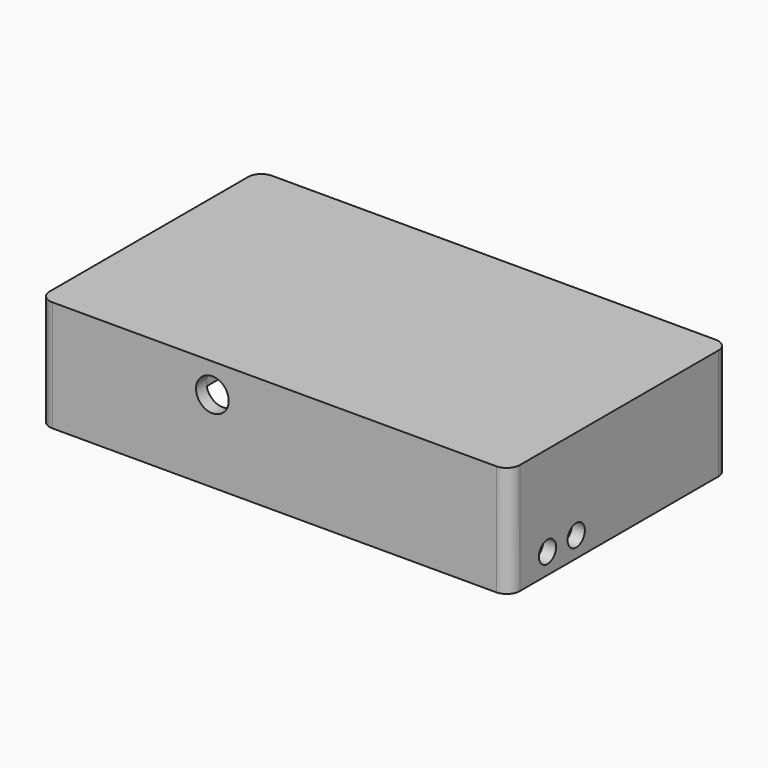
from build123d import *

# Parameters (mm, degrees)
BOX017_W          = 16
BOX017_H          = 4
BOX017_DEPTH      = 1
FILLET004_R       = 1
CYLINDER025_R     = 1.65
CYLINDER025_DEPTH = 10
CYLINDER024_R     = 1.65
CYLINDER024_DEPTH = 10
BOX015_W          = 2
BOX015_H          = 10
BOX015_DEPTH      = 5
FILLET006_R       = 1.5
CYLINDER023_R     = 2.5
CYLINDER023_DEPTH = 2
BOX009_W          = 68
BOX009_H          = 38
BOX009_DEPTH      = 15
BOX008_W          = 72
BOX008_H          = 42
BOX008_DEPTH      = 17
FILLET_R          = 2
BOX018_W          = 2
BOX018_H          = 10
BOX018_DEPTH      = 5
FILLET005_R       = 1.5


with BuildPart() as fillet004:
    # Box017 → Box017 (new body)
    with BuildSketch(Plane(origin=(-19, -30.6, 33), x_dir=(1, 0, 0), z_dir=(0, 0, 1))):
        with Locations((8, 2)):
            Rectangle(BOX017_W, BOX017_H)
    extrude(amount=BOX017_DEPTH)

    # Fillet004
    fillet004_edges = [fillet004.edges().sort_by_distance(p)[0] for p in [
        (-19, -30.6, 33.5),
        (-19, -26.6, 33.5),
        (-3, -30.6, 33.5),
        (-3, -26.6, 33.5),
    ]]
    fillet(fillet004_edges, radius=FILLET004_R)


with BuildPart() as cylinder025:
    # Cylinder025 → Cylinder025 (new body)
    with BuildSketch(Plane(origin=(33.99, -22.8034, 21.15), x_dir=(0, 0, -1), z_dir=(1, 0, 0))):
        Circle(CYLINDER025_R)
    extrude(amount=CYLINDER025_DEPTH)


with BuildPart() as fusion018:
    # Cylinder024 → Cylinder024 (new body)
    with BuildSketch(Plane(origin=(33.99, -28.3034, 21.15), x_dir=(0, 0, -1), z_dir=(1, 0, 0))):
        Circle(CYLINDER024_R)
    extrude(amount=CYLINDER024_DEPTH)

    # Fusion018: union Cylinder025
    add(cylinder025.part)


with BuildPart() as fillet006:
    # Box015 → Box015 (new body)
    with BuildSketch(Plane(origin=(-14, -33.6, 30), x_dir=(1, 0, 0), z_dir=(0, 0, 1))):
        with Locations((1, 5)):
            Rectangle(BOX015_W, BOX015_H)
    extrude(amount=BOX015_DEPTH)

    # Fillet006
    fillet006_edges = [fillet006.edges().sort_by_distance(p)[0] for p in [
        (-13, -23.6, 30),
    ]]
    fillet(fillet006_edges, radius=FILLET006_R)


with BuildPart() as cylinder023:
    # Cylinder023 → Cylinder023 (new body)
    with BuildSketch(Plane(origin=(-9.5, -33.6034, 30.5), x_dir=(1, 0, 0), z_dir=(0, -1, 0))):
        Circle(CYLINDER023_R)
    extrude(amount=CYLINDER023_DEPTH)


with BuildPart() as kostka009:
    # Box009 → Box009 (new body)
    with BuildSketch(Plane(origin=(-34.01, -33.6034, 18), x_dir=(1, 0, 0), z_dir=(0, 0, 1))):
        with Locations((34, 19)):
            Rectangle(BOX009_W, BOX009_H)
    extrude(amount=BOX009_DEPTH)


with BuildPart() as cut020:
    # Box008 → Box008 (new body)
    with BuildSketch(Plane(origin=(-36.01, -35.6034, 18), x_dir=(1, 0, 0), z_dir=(0, 0, 1))):
        with Locations((36, 21)):
            Rectangle(BOX008_W, BOX008_H)
    extrude(amount=BOX008_DEPTH)

    # Cut005: cut Kostka009
    add(kostka009.part, mode=Mode.SUBTRACT)

    # Fillet
    fillet_edges = [cut020.edges().sort_by_distance(p)[0] for p in [
        (-36.01, -35.6034, 26.5),
        (-36.01, 6.3966, 26.5),
        (35.99, -35.6034, 26.5),
        (35.99, 6.3966, 26.5),
    ]]
    fillet(fillet_edges, radius=FILLET_R)

    # Cut020: cut Cylinder023
    add(cylinder023.part, mode=Mode.SUBTRACT)


with BuildPart() as cover:
    # Box018 → Box018 (new body)
    with BuildSketch(Plane(origin=(-7, -33.6, 30), x_dir=(1, 0, 0), z_dir=(0, 0, 1))):
        with Locations((1, 5)):
            Rectangle(BOX018_W, BOX018_H)
    extrude(amount=BOX018_DEPTH)

    # Fillet005
    fillet005_edges = [cover.edges().sort_by_distance(p)[0] for p in [
        (-6, -23.6, 30),
    ]]
    fillet(fillet005_edges, radius=FILLET005_R)

    # Fusion017: union Fillet006, Cut020
    add(fillet006.part)
    add(cut020.part)

    # Cut021: cut Fusion018
    add(fusion018.part, mode=Mode.SUBTRACT)

    # Cut022: cut Fillet004
    add(fillet004.part, mode=Mode.SUBTRACT)


solid = cover.part
